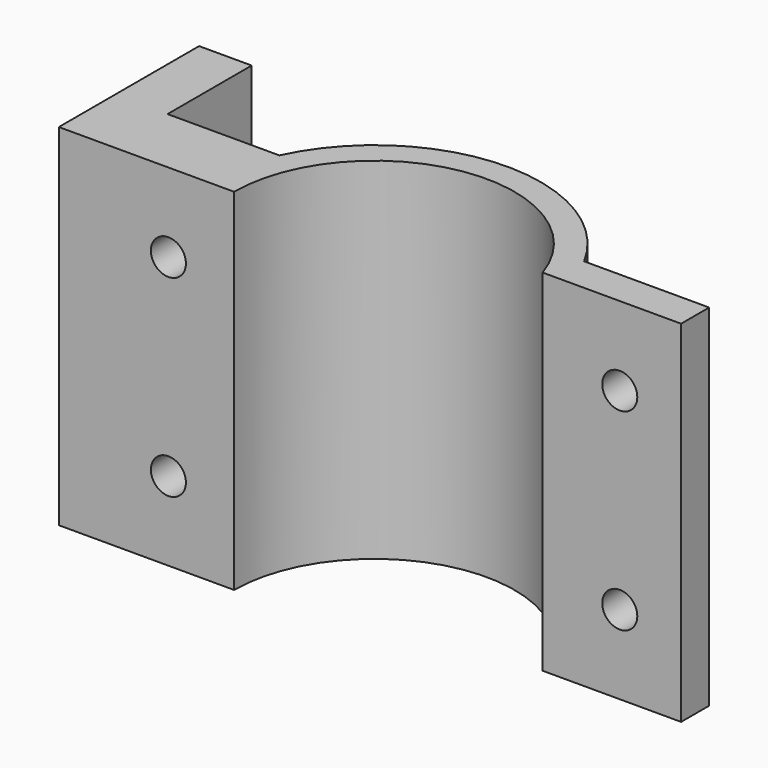
from build123d import *

# Parameters (mm, degrees)
SKETCH209_R     = 19
SKETCH209_R_2   = 16
PAD104_DEPTH    = 40
SKETCH210_W     = 38
SKETCH210_H     = 10
POCKET121_DEPTH = 40
SKETCH211_W     = 15
SKETCH211_H     = 4
PAD105_DEPTH    = 40
SKETCH212_R     = 2
POCKET122_DEPTH = 69.001
SKETCH213_W     = 6
SKETCH213_H     = 40
SKETCH213_W_2   = 13
SKETCH213_H_2   = 16
PAD106_DEPTH    = 40
SKETCH214_R     = 2
POCKET123_DEPTH = 6
SKETCH_W        = 90
SKETCH_H        = 30
POCKET_DEPTH    = 40.001
SKETCH215_R     = 2
POCKET124_DEPTH = 70.001


with BuildPart() as part:
    # Sketch209 → Pad104 (new body)
    with BuildSketch(Plane.XY):
        with Locations((50, 50)):
            Circle(SKETCH209_R)
        with Locations((50, 50)):
            Circle(SKETCH209_R_2, mode=Mode.SUBTRACT)
    extrude(amount=PAD104_DEPTH)

    # Sketch210 → Pocket121 (cut)
    with BuildSketch(Plane.XY):
        with Locations((69, 50)):
            Rectangle(SKETCH210_W, SKETCH210_H)
    extrude(amount=POCKET121_DEPTH, mode=Mode.SUBTRACT)

    # Sketch211 → Pad105 (join)
    with BuildSketch(Plane.XY):
        with Locations((73.5, 57)):
            Rectangle(SKETCH211_W, SKETCH211_H)
        with Locations((73.5, 43)):
            Rectangle(SKETCH211_W, SKETCH211_H)
    extrude(amount=PAD105_DEPTH)

    # Sketch212 → Pocket122 (cut, through all)
    with BuildSketch(Plane.XZ):
        with Locations((74, 31)):
            Circle(SKETCH212_R)
        with Locations((74, 9)):
            Circle(SKETCH212_R)
    extrude(amount=-POCKET122_DEPTH, mode=Mode.SUBTRACT)

    # Sketch213 → Pad106 (join)
    with BuildSketch(Plane.XY):
        with Locations((17, 50)):
            Rectangle(SKETCH213_W, SKETCH213_H)
        with Locations((26.5, 50)):
            Rectangle(SKETCH213_W_2, SKETCH213_H_2)
    extrude(amount=PAD106_DEPTH)

    # Sketch214 (on Face19 of Pad106) → Pocket123 (cut)
    with BuildSketch(Plane(origin=(14, 0, 0), x_dir=(0, -1, 0), z_dir=(-1, 0, 0))):
        with Locations((-65, 20)):
            Circle(SKETCH214_R)
        with Locations((-35, 20)):
            Circle(SKETCH214_R)
    extrude(amount=-POCKET123_DEPTH, mode=Mode.SUBTRACT)

    # Sketch → Pocket (cut, through all)
    with BuildSketch(Plane.XY):
        with Locations((48.284056, 35)):
            Rectangle(SKETCH_W, SKETCH_H)
    extrude(amount=POCKET_DEPTH, mode=Mode.SUBTRACT)

    # Sketch215 → Pocket124 (cut, through all)
    with BuildSketch(Plane.XZ):
        with Locations((26.5, 31)):
            Circle(SKETCH215_R)
        with Locations((26.5, 9)):
            Circle(SKETCH215_R)
    extrude(amount=-POCKET124_DEPTH, mode=Mode.SUBTRACT)


solid = part.part
